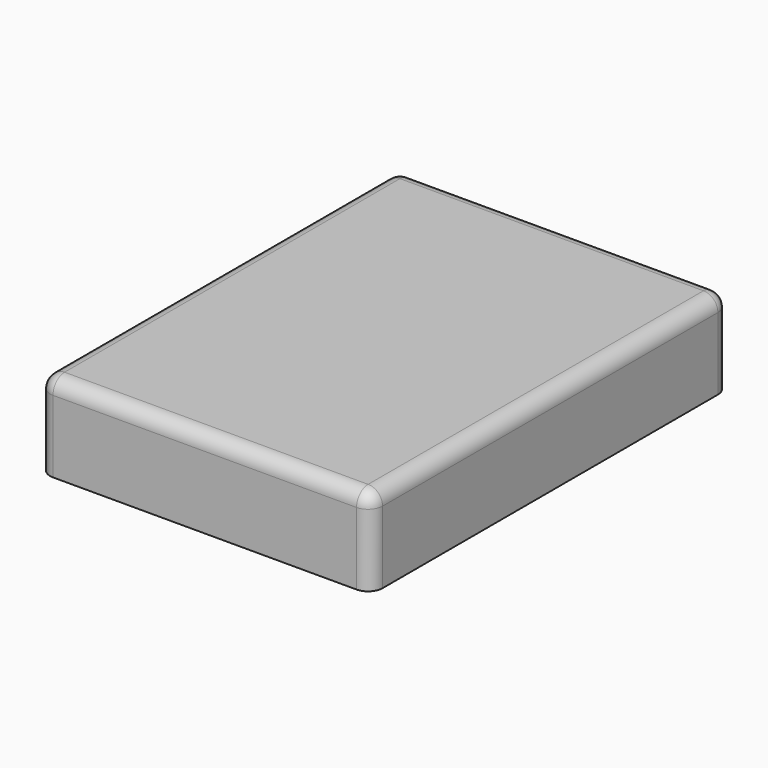
from build123d import *

# Parameters (mm, degrees)
SKETCH_W  = 2.3
SKETCH_H  = 3.1
PAD_DEPTH = 0.6
FILLET_R  = 0.1


with BuildPart() as part:
    # Sketch → Pad (new body)
    with BuildSketch(Plane.XY):
        Rectangle(SKETCH_W, SKETCH_H)
    extrude(amount=PAD_DEPTH)

    # Fillet
    fillet_edges = [part.edges().sort_by_distance(p)[0] for p in [
        (-1.15, 1.55, 0.3),
        (0, 1.55, 0.6),
        (-1.15, 0, 0.6),
        (1.15, 1.55, 0.3),
        (1.15, 0, 0.6),
        (0, -1.55, 0.6),
        (1.15, -1.55, 0.3),
        (-1.15, -1.55, 0.3),
    ]]
    fillet(fillet_edges, radius=FILLET_R)


solid = part.part
